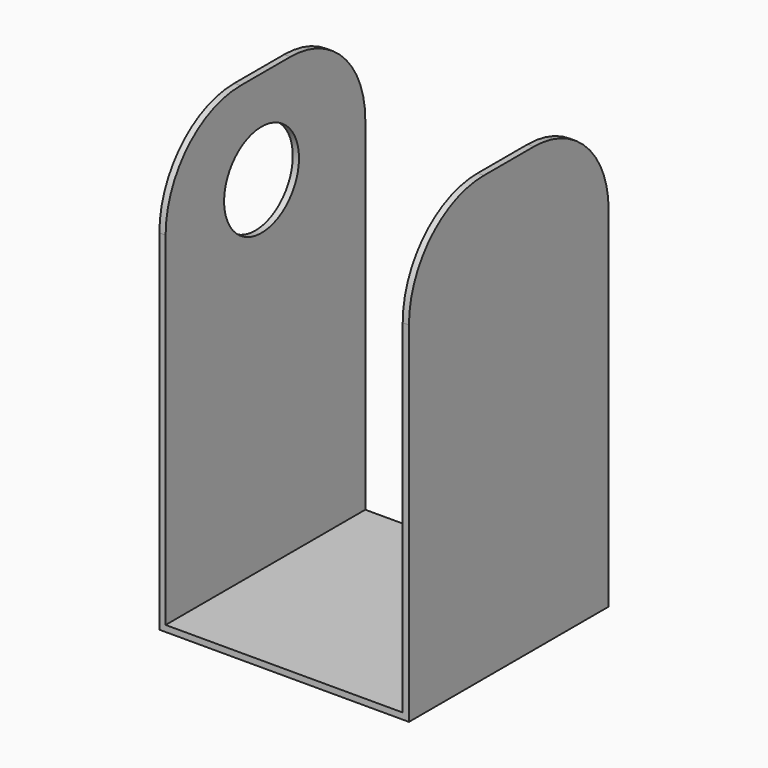
from build123d import *

# Parameters (mm, degrees)
F0_W     = 50.8
F0_H     = 50.8
F1_DEPTH = 1.27
F2_W     = 1.27
F2_H     = 50.8
F3_DEPTH = 88.9
F4_R     = 19.05
F5_R     = 19.05
F7_D     = 19.05
F7_DEPTH = 1.271


with BuildPart() as f1:
    # F0 (on Top) → F1 (new body)
    with BuildSketch(Plane.XY):
        with Locations((3.9132147372, 0.9917675793)):
            Rectangle(F0_W, F0_H)
    extrude(amount=F1_DEPTH)

    # F2 (on face) → F3 (join)
    with BuildSketch(Plane.XY.offset(1.27)):
        with Locations((-20.8517852628, 0.9917675793)):
            Rectangle(F2_W, F2_H)
        with Locations((28.6782147372, 0.9917675793)):
            Rectangle(F2_W, F2_H)
    extrude(amount=F3_DEPTH)

    # F4
    f4_edges = [f1.edges().sort_by_distance(p)[0] for p in [
        (28.678215, 26.391768, 90.17),
        (-20.851785, 26.391768, 90.17),
    ]]
    fillet(f4_edges, radius=F4_R)

    # F5
    f5_edges = [f1.edges().sort_by_distance(p)[0] for p in [
        (-20.851785, -24.408232, 90.17),
        (28.678215, -24.408232, 90.17),
    ]]
    fillet(f5_edges, radius=F5_R)

    # F7 (through all, one way)
    with BuildSketch(Plane.YZ.offset(-20.2167852628)):
        with Locations((0, 71.12)):
            Circle(F7_D / 2)
    extrude(amount=-F7_DEPTH, mode=Mode.SUBTRACT)


solid = f1.part
